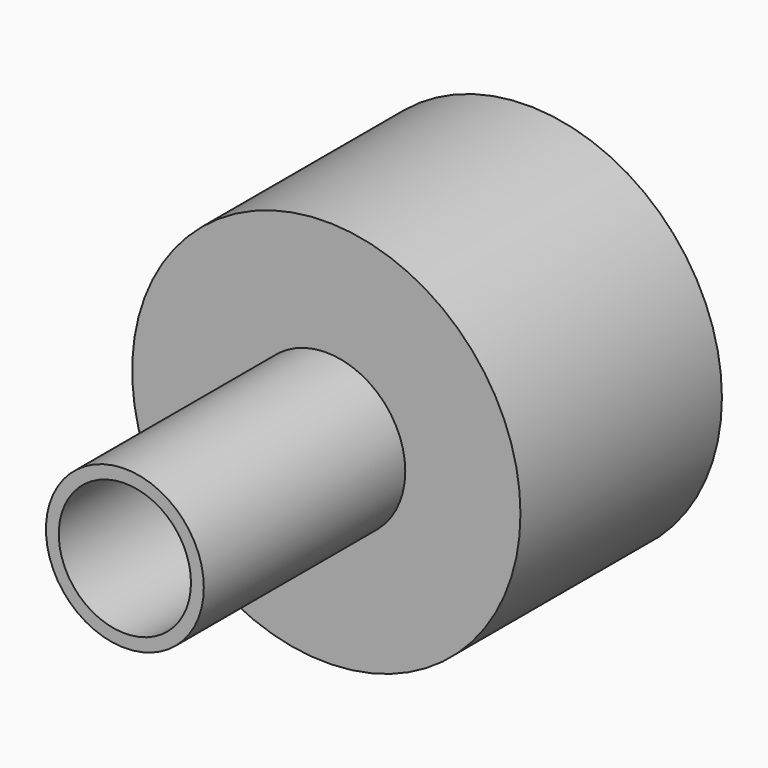
from build123d import *

# Parameters (mm, degrees)
F0_R     = 39.1668
F0_R_2   = 36.5125
F1_DEPTH = 45.72
F3_R     = 39.1668
F3_R_2   = 13.335
F4_DEPTH = 5.08
F6_R     = 15.9258
F6_R_2   = 13.335
F7_DEPTH = 50.8


with BuildPart() as f1:
    # F0 (on Front) → F1 (new body)
    with BuildSketch(Plane.XZ):
        Circle(F0_R)
        Circle(F0_R_2, mode=Mode.SUBTRACT)
    extrude(amount=F1_DEPTH)

    # F3 (on offset) → F4 (join)
    with BuildSketch(Plane.XZ.offset(45.72)):
        Circle(F3_R)
        Circle(F3_R_2, mode=Mode.SUBTRACT)
    extrude(amount=F4_DEPTH)

    # F6 (on offset) → F7 (join)
    with BuildSketch(Plane.XZ.offset(50.8)):
        Circle(F6_R)
        Circle(F6_R_2, mode=Mode.SUBTRACT)
    extrude(amount=F7_DEPTH)


solid = f1.part
